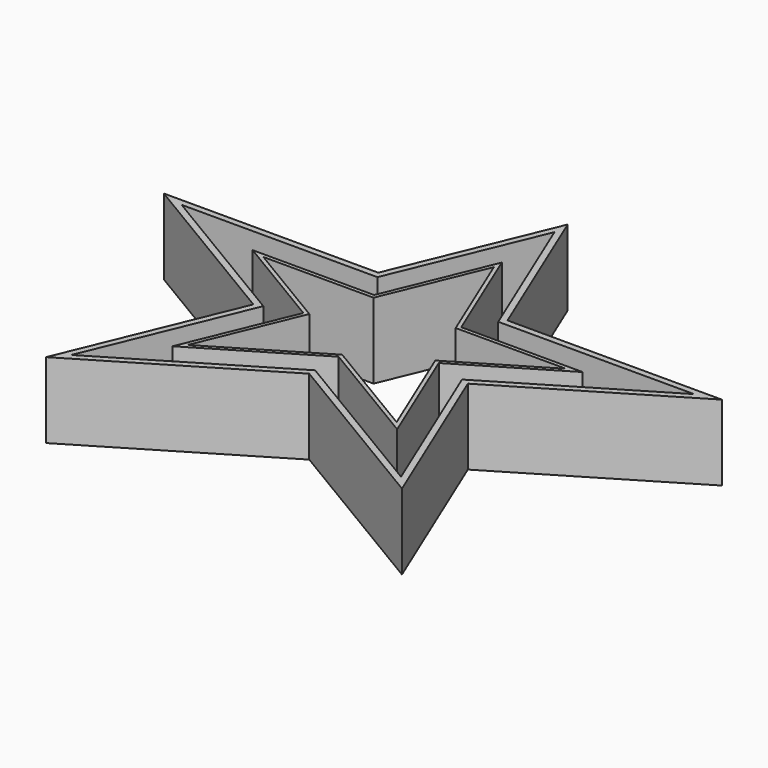
from build123d import *

# Parameters (mm, degrees)
F1_DEPTH = 60
F3_DEPTH = 60


with BuildPart() as f1:
    # F0 (on Top) → F1 (new body)
    with BuildSketch(Plane.XY):
        Polygon((-89.086217, -107.233766), (0, -53.906885), (89.086217, -107.233766), (53.686146, -21.770435), (130.852711, 24.421359), (34.552878, 24.421359), (0, 107.839386), (-34.552878, 24.421359), (-130.852711, 24.421359), (-53.686146, -21.770435), align=None)
        Polygon((-32.54834, 21.421356), (0, 100), (32.54834, 21.421356), (120, 21.421356), (49.923615, -20.526267), (82.842712, -100), (0, -50.410471), (-82.842712, -100), (-49.923615, -20.526267), (-120, 21.421356), align=None, mode=Mode.SUBTRACT)
    extrude(amount=F1_DEPTH)


with BuildPart() as f3:
    # F2 (on face) → F3 (new body)
    with BuildSketch(Plane.XY.offset(60)):
        Polygon((51.257343, 49.421357), (0, 173.167529), (-51.257343, 49.421357), (-221.29186, 49.421357), (-85.040537, -32.138489), (-141.115358, -167.515082), (0, -83.043632), (141.115358, -167.515082), (85.040537, -32.138489), (221.29186, 49.421357), align=None)
        Polygon((-47.916449, 44.421357), (0, 160.101899), (47.916449, 44.421357), (203.204028, 44.421357), (78.769658, -30.064878), (130.709529, -155.458818), (0, -77.216282), (-130.709529, -155.458818), (-78.769658, -30.064878), (-203.204028, 44.421357), align=None, mode=Mode.SUBTRACT)
    extrude(amount=-F3_DEPTH)


solid = Compound([f1.part, f3.part])
